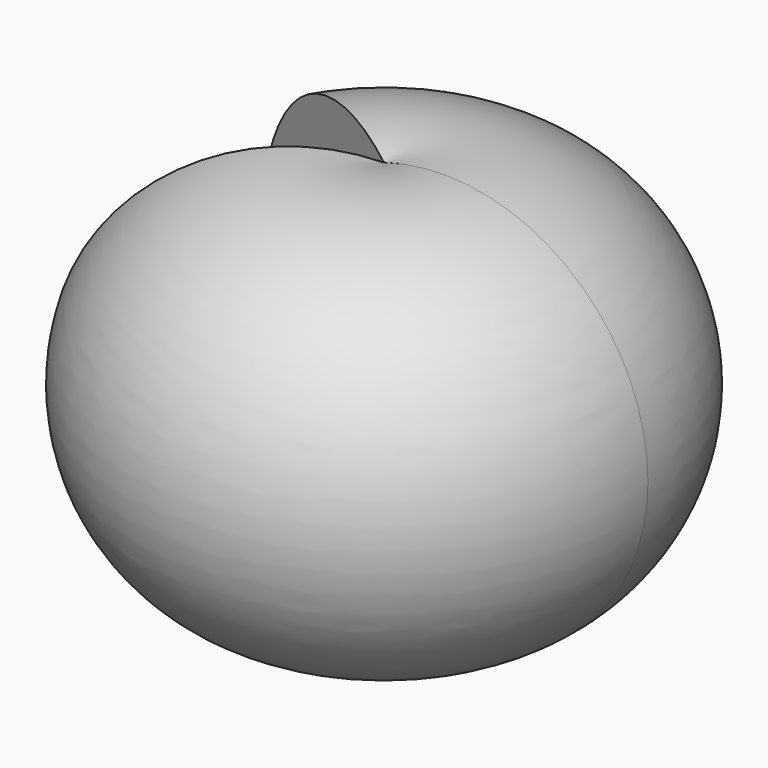
from build123d import *

# Parameters (mm, degrees)
F1_ANGLE = -300


with BuildPart() as f1:
    # F0 (on Front) → F1 (revolve, symmetric)
    with BuildSketch(Plane.XZ) as f1_sk:
        with BuildLine():
            Line((0, 51.081937), (0, 0))
            ThreePointArc((0, 0), (34.586073, 25.540968), (0, 51.081937))
        make_face()
    revolve(axis=Axis((0, 0, 25.540968), (0, 0, 1)), revolution_arc=F1_ANGLE / 2)
    revolve(f1_sk.sketch, axis=Axis((0, 0, 25.540968), (0, 0, -1)), revolution_arc=F1_ANGLE / 2)


solid = f1.part
